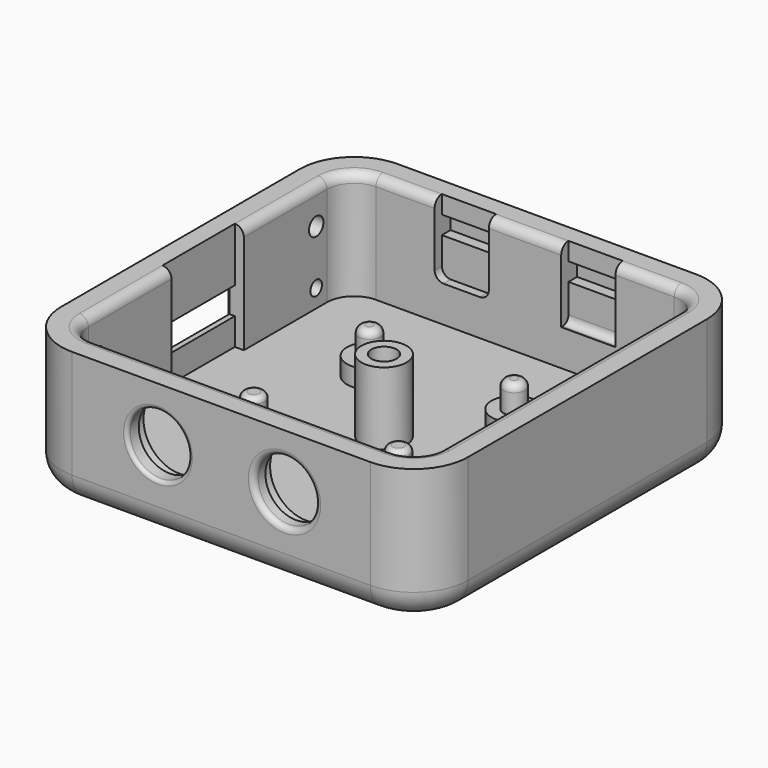
from build123d import *

# Parameters (mm, degrees)
PAD_DEPTH       = 10
PAD_DEPTH_BACK  = 2
THICKNESS_T     = 3
SKETCH002_W     = 10
SKETCH002_H     = 3
POCKET_DEPTH    = 3
POCKET001_DEPTH = 1
SKETCH004_R     = 4
POCKET002_DEPTH = 1.4
SKETCH005_R     = 3.4
POCKET003_DEPTH = 3.001
SKETCH006_W     = 1
SKETCH006_H     = 10
POCKET004_DEPTH = 12
SKETCH007_W     = 6
SKETCH007_H     = 1
POCKET005_DEPTH = 8
SKETCH008_W     = 6
SKETCH008_H     = 2
POCKET006_DEPTH = 2.2
SKETCH009_R     = 2.5
PAD001_DEPTH    = 2
SKETCH010_R     = 1.2
PAD002_DEPTH    = 5
SKETCH011_R     = 0.6
SKETCH011_R_2   = 0.5
SKETCH011_R_3   = 0.8
SKETCH011_R_4   = 1
POCKET007_DEPTH = 3
SKETCH012_R     = 2.5
PAD003_DEPTH    = 8
SKETCH013_R     = 1.4
POCKET008_DEPTH = 5
FILLET001_R     = 0.4
FILLET_R        = 0.6
FILLET002_R     = 0.8
FILLET003_R     = 0.6
CHAMFER_SIZE    = 0.6
CHAMFER001_SIZE = 0.4
FILLET004_R     = 0.8
FILLET005_R     = 1
FILLET006_R     = 1


with BuildPart() as part:
    # Sketch001 → Pad (new body, two sides)
    with BuildSketch(Plane.XY) as pad_sk:
        with BuildLine():
            Line((-16.5, 19.5), (16.5, 19.5))
            ThreePointArc((19.5, 16.5), (18.62132, 18.62132), (16.5, 19.5))
            Line((19.5, 16.5), (19.5, -16.5))
            ThreePointArc((16.5, -19.5), (18.62132, -18.62132), (19.5, -16.5))
            Line((16.5, -19.5), (-16.5, -19.5))
            ThreePointArc((-19.5, -16.5), (-18.62132, -18.62132), (-16.5, -19.5))
            Line((-19.5, -16.5), (-19.5, 16.5))
            ThreePointArc((-16.5, 19.5), (-18.62132, 18.62132), (-19.5, 16.5))
        make_face()
    extrude(amount=PAD_DEPTH)
    extrude(pad_sk.sketch, amount=-PAD_DEPTH_BACK)

    # Thickness
    thickness_openings = [part.faces().sort_by_distance(p)[0] for p in [
        (0, 0, 10),
    ]]
    offset(amount=THICKNESS_T, openings=thickness_openings)

    # Sketch002 (on Face17 of Thickness) → Pocket (cut)
    with BuildSketch(Plane(origin=(-22.5, 0, 0), x_dir=(0, -1, 0), z_dir=(-1, 0, 0))):
        with Locations((0, 2.5)):
            Rectangle(SKETCH002_W, SKETCH002_H)
    extrude(amount=-POCKET_DEPTH, mode=Mode.SUBTRACT)

    # Sketch003 (on Face11 of Pocket) → Pocket001 (cut)
    with BuildSketch(Plane(origin=(-22.5, 0, 0), x_dir=(0, -1, 0), z_dir=(-1, 0, 0))):
        with BuildLine():
            ThreePointArc((-5, 6), (-8.5, 2.5), (-5, -1))
            Line((-5, -1), (5, -1))
            ThreePointArc((5, -1), (8.5, 2.5), (5, 6))
            Line((-5, 6), (5, 6))
        make_face()
    extrude(amount=-POCKET001_DEPTH, mode=Mode.SUBTRACT)

    # Sketch004 (on Face9 of Pocket001) → Pocket002 (cut)
    with BuildSketch(Plane(origin=(0, -19.5, 0), x_dir=(-1, 0, 0), z_dir=(0, 1, 0))):
        with Locations((-7, 4)):
            Circle(SKETCH004_R)
        with Locations((7, 4)):
            Circle(SKETCH004_R)
    extrude(amount=-POCKET002_DEPTH, mode=Mode.SUBTRACT)

    # Sketch005 (on Face9 of Pocket002) → Pocket003 (cut, through all)
    with BuildSketch(Plane(origin=(0, -19.5, 0), x_dir=(-1, 0, 0), z_dir=(0, 1, 0))):
        with Locations((7, 4)):
            Circle(SKETCH005_R)
        with Locations((-7, 4)):
            Circle(SKETCH005_R)
    extrude(amount=-POCKET003_DEPTH, mode=Mode.SUBTRACT)

    # Sketch006 (on Face5 of Pocket003) → Pocket004 (cut)
    with BuildSketch(Plane.XY.offset(10)):
        with Locations((-20, 0)):
            Rectangle(SKETCH006_W, SKETCH006_H)
    extrude(amount=-POCKET004_DEPTH, mode=Mode.SUBTRACT)

    # Sketch007 (on Face5 of Pocket004) → Pocket005 (cut)
    with BuildSketch(Plane.XY.offset(10)):
        with Locations((-7, 20)):
            Rectangle(SKETCH007_W, SKETCH007_H)
        with Locations((7, 20)):
            Rectangle(SKETCH007_W, SKETCH007_H)
    extrude(amount=-POCKET005_DEPTH, mode=Mode.SUBTRACT)

    # Sketch008 (on Face1 of Pocket005) → Pocket006 (cut)
    with BuildSketch(Plane.XZ.offset(-19.5)):
        with Locations((-7, 7)):
            Rectangle(SKETCH008_W, SKETCH008_H)
        with Locations((7, 7)):
            Rectangle(SKETCH008_W, SKETCH008_H)
    extrude(amount=-POCKET006_DEPTH, mode=Mode.SUBTRACT)

    # Sketch009 (on Face2 of Pocket006) → Pad001 (join)
    with BuildSketch(Plane.XY.offset(-2)):
        with Locations((-8, 8)):
            Circle(SKETCH009_R)
        with Locations((8, 8)):
            Circle(SKETCH009_R)
        with Locations((8, -8)):
            Circle(SKETCH009_R)
        with Locations((-8, -8)):
            Circle(SKETCH009_R)
    extrude(amount=PAD001_DEPTH)

    # Sketch010 (on Face2 of Pad001) → Pad002 (join)
    with BuildSketch(Plane.XY.offset(-2)):
        with Locations((-8, 8)):
            Circle(SKETCH010_R)
        with Locations((8, 8)):
            Circle(SKETCH010_R)
        with Locations((8, -8)):
            Circle(SKETCH010_R)
        with Locations((-8, -8)):
            Circle(SKETCH010_R)
    extrude(amount=PAD002_DEPTH)

    # Sketch011 → Pocket007 (cut)
    with BuildSketch(Plane(origin=(-22.5, 0, 0), x_dir=(0, -1, 0), z_dir=(-1, 0, 0))):
        with Locations((15, 0)):
            Circle(SKETCH011_R)
        with Locations((15, 6)):
            Circle(SKETCH011_R_2)
        with Locations((-15, 0)):
            Circle(SKETCH011_R_3)
        with Locations((-15, 6)):
            Circle(SKETCH011_R_4)
    extrude(amount=-POCKET007_DEPTH, mode=Mode.SUBTRACT)

    # Sketch012 (on Face2 of Pocket007) → Pad003 (join)
    with BuildSketch(Plane.XY.offset(-2)):
        Circle(SKETCH012_R)
    extrude(amount=PAD003_DEPTH)

    # Sketch013 (on Face63 of Pad003) → Pocket008 (cut)
    with BuildSketch(Plane.XY.offset(6)):
        Circle(SKETCH013_R)
    extrude(amount=-POCKET008_DEPTH, mode=Mode.SUBTRACT)

    # Fillet001
    fillet001_edges = [part.edges().sort_by_distance(p)[0] for p in [
        (-3.6, -22.5, 4),
    ]]
    fillet(fillet001_edges, radius=FILLET001_R)

    # Fillet
    fillet_edges = [part.edges().sort_by_distance(p)[0] for p in [
        (10.4, -22.5, 4),
    ]]
    fillet(fillet_edges, radius=FILLET_R)

    # Fillet002
    fillet002_edges = [part.edges().sort_by_distance(p)[0] for p in [
        (-9.2, 8, 3),
        (6.8, 8, 3),
    ]]
    fillet(fillet002_edges, radius=FILLET002_R)

    # Fillet003
    fillet003_edges = [part.edges().sort_by_distance(p)[0] for p in [
        (-9.2, -8, 3),
        (6.8, -8, 3),
    ]]
    fillet(fillet003_edges, radius=FILLET003_R)

    # Chamfer
    chamfer_edges = [part.edges().sort_by_distance(p)[0] for p in [
        (-22.5, 0, -1),
    ]]
    chamfer(chamfer_edges, length=CHAMFER_SIZE)

    # Chamfer001
    chamfer001_edges = [part.edges().sort_by_distance(p)[0] for p in [
        (-21.5, 0, 1),
        (-21.5, 5, 2.5),
        (-21.5, 0, 4),
        (-21.5, -5, 2.5),
    ]]
    chamfer(chamfer001_edges, length=CHAMFER001_SIZE)

    # Fillet004
    fillet004_edges = [part.edges().sort_by_distance(p)[0] for p in [
        (7, 20.5, 2),
    ]]
    fillet(fillet004_edges, radius=FILLET004_R)

    # Fillet005
    fillet005_edges = [part.edges().sort_by_distance(p)[0] for p in [
        (-10, 20, 2),
        (-4, 20, 2),
    ]]
    fillet(fillet005_edges, radius=FILLET005_R)

    # Fillet006
    fillet006_edges = [part.edges().sort_by_distance(p)[0] for p in [
        (0, -19.5, 10),
        (-19.5, 10.75, 10),
        (0, 19.5, 10),
    ]]
    fillet(fillet006_edges, radius=FILLET006_R)


solid = part.part
